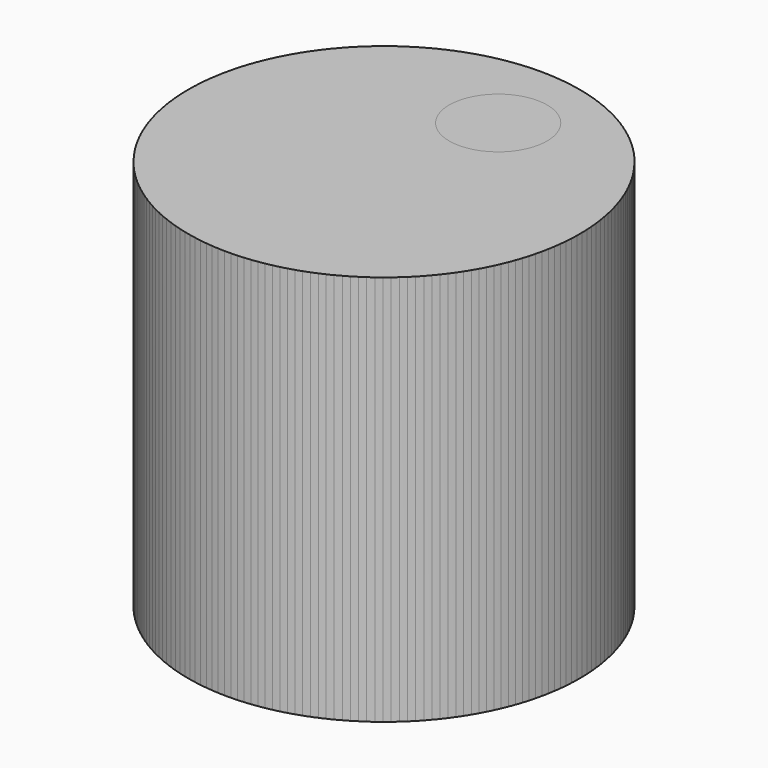
from build123d import *

# Parameters (mm, degrees)
F0_R     = 50.8
F1_DEPTH = 101.6
F2_R     = 12.7
F3_DEPTH = 101.601
F5_COUNT = 6


with BuildPart() as f1:
    # F0 (on Top) → F1 (new body)
    with BuildSketch(Plane.XY):
        Circle(F0_R)
    extrude(amount=F1_DEPTH)

    # F2 (on face) → F3 (cut, through all)
    with BuildSketch(Plane.XY.offset(101.6)):
        with Locations((-20.32, 20.32)):
            Circle(F2_R)
    extrude(amount=-F3_DEPTH, mode=Mode.SUBTRACT)


with BuildPart() as f5_1:
    # F5: instance of F1
    add(f1.part.rotate(Axis((0, 0, 50.8), (0, 0, 1)), 1 * 360 / F5_COUNT))


with BuildPart() as f5_2:
    # F5: instance of F1
    add(f1.part.rotate(Axis((0, 0, 50.8), (0, 0, 1)), 2 * 360 / F5_COUNT))


with BuildPart() as f5_3:
    # F5: instance of F1
    add(f1.part.rotate(Axis((0, 0, 50.8), (0, 0, 1)), 3 * 360 / F5_COUNT))


with BuildPart() as f5_4:
    # F5: instance of F1
    add(f1.part.rotate(Axis((0, 0, 50.8), (0, 0, 1)), 4 * 360 / F5_COUNT))


with BuildPart() as f5_5:
    # F5: instance of F1
    add(f1.part.rotate(Axis((0, 0, 50.8), (0, 0, 1)), 5 * 360 / F5_COUNT))


solid = Compound([f1.part, f5_1.part, f5_2.part, f5_3.part, f5_4.part, f5_5.part])
